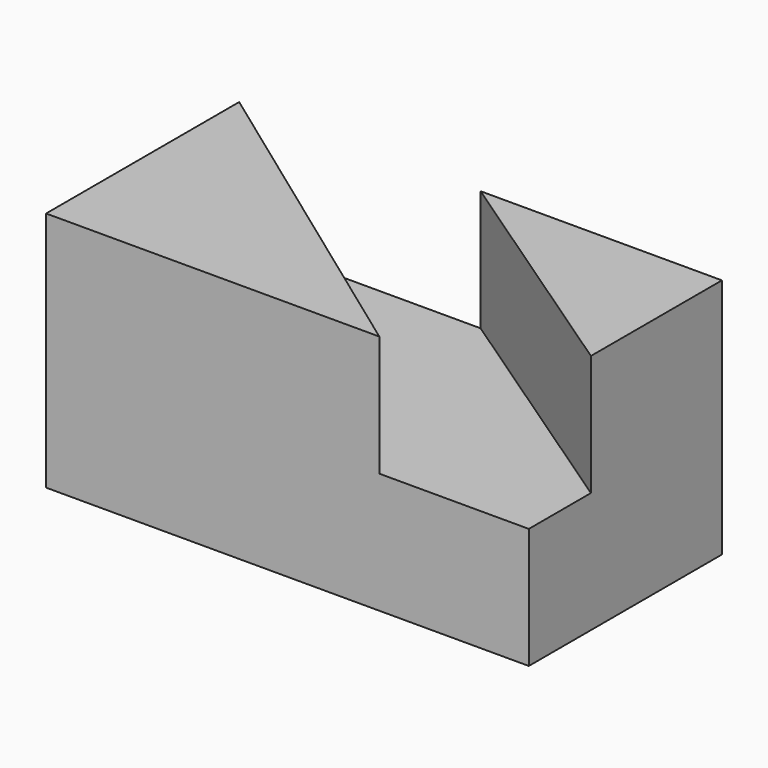
from build123d import *

# Parameters (mm, degrees)
F0_W     = 12.7
F0_H     = 12.7
F1_DEPTH = 25.4
F3_DEPTH = 12.7


with BuildPart() as f1:
    # F0 (on Front) → F1 (new body)
    with BuildSketch(Plane.XZ):
        Polygon((0, 25.4), (0, 0), (50.8, 0), (50.8, 12.7), (38.1, 12.7), (38.1, 25.4), align=None)
        with Locations((44.45, 19.05)):
            Rectangle(F0_W, F0_H)
    extrude(amount=F1_DEPTH)

    # F2 (on face) → F3 (cut, symmetric)
    with BuildSketch(Plane.XY.offset(25.4)):
        Polygon((25.4, 0), (0, 0), (35.067357, -25.4), (50.8, -25.4), (50.8, -17.231373), align=None)
    extrude(amount=F3_DEPTH, both=True, mode=Mode.SUBTRACT)


solid = f1.part
